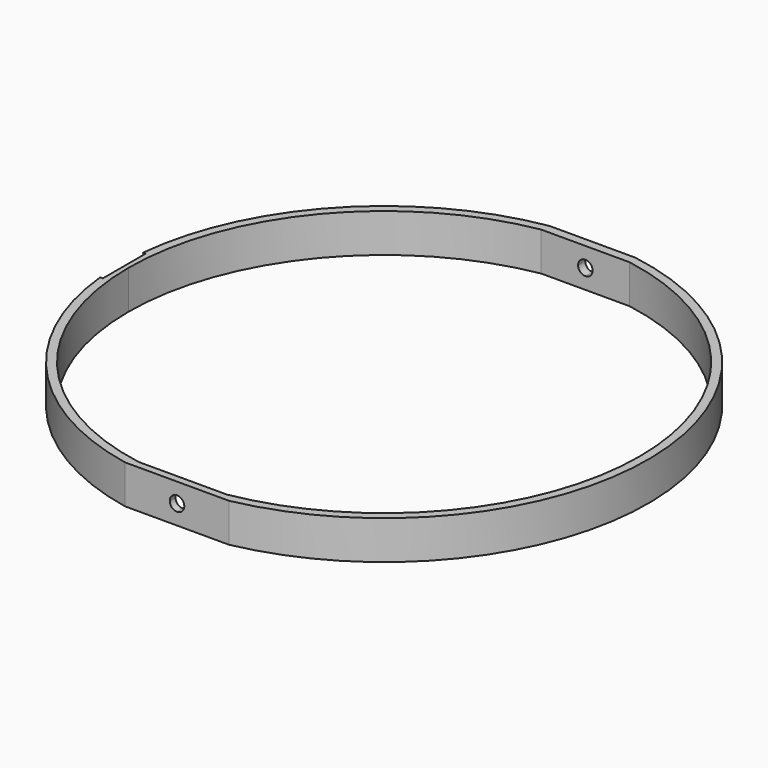
from build123d import *

# Parameters (mm, degrees)
F1_DEPTH = 10
F3_DEPTH = 170
F4_W     = 4.053228
F4_H     = 4.812476
F5_DEPTH = 25
F6_W     = 4.812476
F6_H     = 10
F7_DEPTH = 1.55
F8_R     = 8.5
F9_DEPTH = 1


with BuildPart() as f1:
    # F0 (on Top) → F1 (new body)
    with BuildSketch(Plane.XY):
        with BuildLine():
            Line((0, -66.863723), (13.439171, -66.863723))
            ThreePointArc((13.439171, -66.863723), (68.190366, 1.201156), (11.07599, 67.295551))
            Line((11.07599, 67.295551), (0, 67.295551))
            Line((0, 67.295551), (-11.07599, 67.295551))
            ThreePointArc((-11.07599, 67.295551), (-68.190366, 1.201156), (-13.439171, -66.863723))
            Line((-13.439171, -66.863723), (0, -66.863723))
        make_face()
        with BuildLine():
            Line((-11.445523, 65), (0, 65))
            Line((0, 65), (11.445523, 65))
            ThreePointArc((11.445523, 65), (50.553954, 42.429916), (66, 0))
            ThreePointArc((66, 0), (50.553954, -42.429916), (11.445523, -65))
            Line((11.445523, -65), (0, -65))
            Line((0, -65), (-11.445523, -65))
            ThreePointArc((-11.445523, -65), (-50.553954, -42.429916), (-66, 0))
            ThreePointArc((-66, 0), (-50.553954, 42.429916), (-11.445523, 65))
        make_face(mode=Mode.SUBTRACT)
    extrude(amount=F1_DEPTH)

    # F2 (on face) → F3 (cut)
    with BuildSketch(Plane(origin=(0, 67.295551, 0), x_dir=(-1, 0, 0), z_dir=(0, 1, 0))):
        with BuildLine():
            ThreePointArc((0, 6.875), (-1.875, 5), (0, 3.125))
            Line((0, 3.125), (0, 6.875))
        make_face()
        with BuildLine():
            Line((0, 6.875), (0, 3.125))
            ThreePointArc((0, 3.125), (1.325825, 3.674175), (1.875, 5))
            ThreePointArc((1.875, 5), (1.325825, 6.325825), (0, 6.875))
        make_face()
    extrude(amount=-F3_DEPTH, mode=Mode.SUBTRACT)

    # F4 (on face) → F5 (cut)
    with BuildSketch(Plane.XY.offset(10)):
        with Locations((-68.636846, 0)):
            Rectangle(F4_W, F4_H)
    extrude(amount=-F5_DEPTH, mode=Mode.SUBTRACT)

    # F6 (on face) → F7 (join)
    with BuildSketch(Plane(origin=(-66.610232, 0, 0), x_dir=(0, -1, 0), z_dir=(-1, 0, 0))):
        with Locations((0, 5)):
            Rectangle(F6_W, F6_H)
    extrude(amount=F7_DEPTH)

    # F8 (on face) → F9 (cut)
    with BuildSketch(Plane(origin=(-68.160232, 0, 0), x_dir=(0, -1, 0), z_dir=(-1, 0, 0))):
        with Locations((0, 5)):
            Circle(F8_R)
    extrude(amount=-F9_DEPTH, mode=Mode.SUBTRACT)


solid = f1.part
